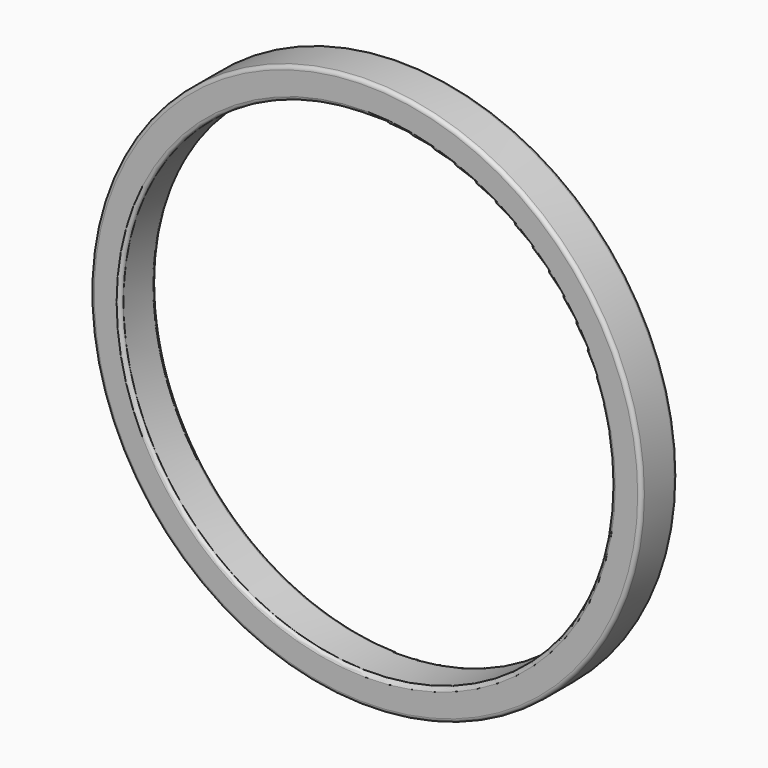
from build123d import *

# Parameters (mm, degrees)
F0_R     = 18.45
F0_R_2   = 16.45
F1_DEPTH = 1.5
F2_R     = 0.25
F3_R     = 0.25
F4_R     = 0.25


with BuildPart() as f1:
    # F0 (on Front) → F1 (new body, symmetric)
    with BuildSketch(Plane.XZ):
        Circle(F0_R)
        Circle(F0_R_2, mode=Mode.SUBTRACT)
    extrude(amount=F1_DEPTH, both=True)

    # F2
    f2_edges = [f1.edges().sort_by_distance(p)[0] for p in [
        (-16.45, -1.5, 0),
    ]]
    fillet(f2_edges, radius=F2_R)

    # F3
    f3_edges = [f1.edges().sort_by_distance(p)[0] for p in [
        (-16.45, 1.5, 0),
    ]]
    fillet(f3_edges, radius=F3_R)

    # F4
    f4_edges = [f1.edges().sort_by_distance(p)[0] for p in [
        (-18.45, -1.5, 0),
        (-18.45, 1.5, 0),
    ]]
    fillet(f4_edges, radius=F4_R)


solid = f1.part
